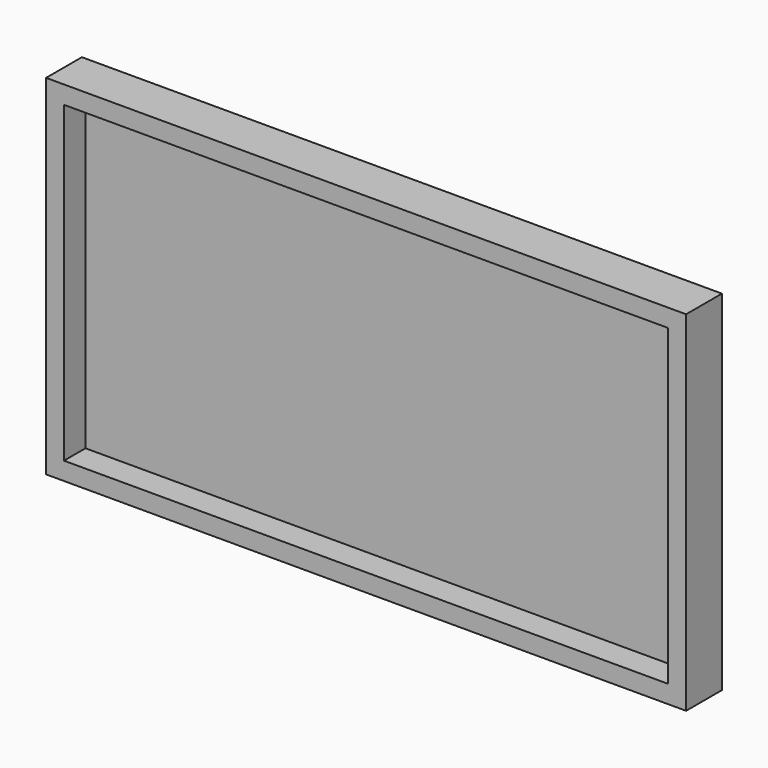
from build123d import *

# Parameters (mm, degrees)
F0_W     = 171.45
F0_H     = 5.08
F1_DEPTH = 12.7
F0_H_2   = 88.9
F2_DEPTH = 5.08


with BuildPart() as f1:
    # F0 (on Front) → F1 (new body)
    with BuildSketch(Plane.XZ):
        Polygon((0, -5.08), (0, 0), (0, 88.9), (0, 93.98), (-5.08, 93.98), (-5.08, -5.08), align=None)
        with Locations((85.725, -2.54)):
            Rectangle(F0_W, F0_H)
        Polygon((171.45, 88.9), (171.45, 0), (171.45, -5.08), (176.53, -5.08), (176.53, 88.9), align=None)
        Polygon((0, 93.98), (0, 88.9), (171.45, 88.9), (176.53, 88.9), (176.53, 93.98), align=None)
    extrude(amount=F1_DEPTH)

    # F0 (on Front) → F2 (join)
    with BuildSketch(Plane.XZ):
        with Locations((85.725, 44.45)):
            Rectangle(F0_W, F0_H_2)
    extrude(amount=F2_DEPTH)


solid = f1.part
